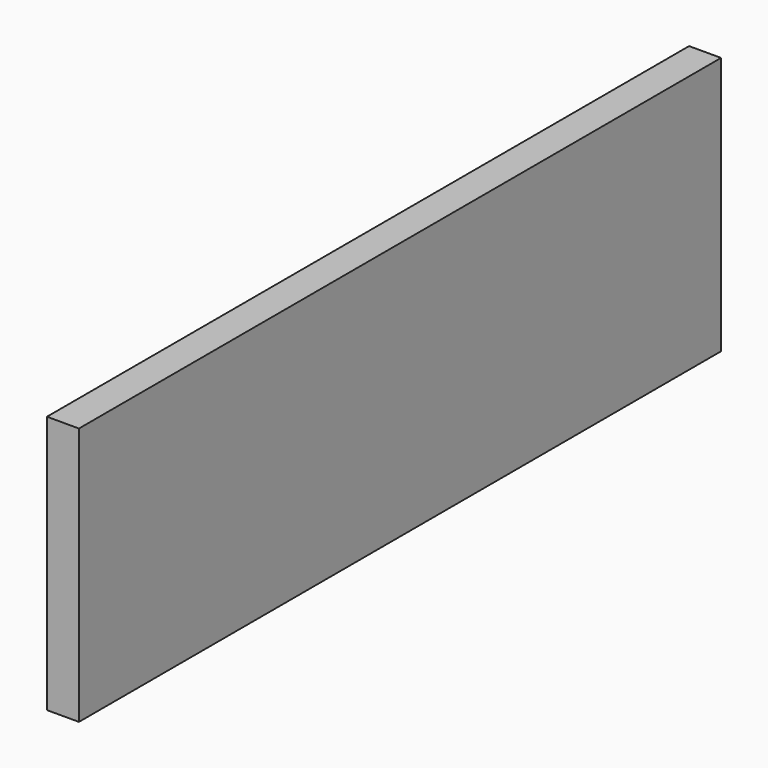
from build123d import *

# Parameters (mm, degrees)
SKETCH_W  = 19
SKETCH_H  = 153.5
PAD_DEPTH = 477


with BuildPart() as part:
    # Sketch → Pad (new body)
    with BuildSketch(Plane.XZ):
        Rectangle(SKETCH_W, SKETCH_H)
    extrude(amount=PAD_DEPTH)


solid = part.part
